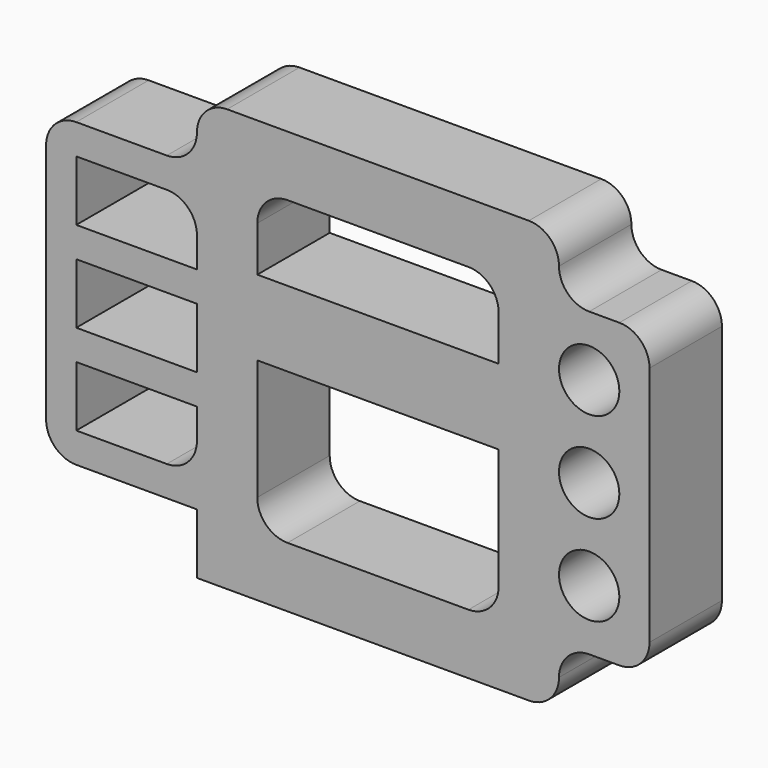
from build123d import *

# Parameters (mm, degrees)
F0_R     = 10
F0_W     = 40
F0_H     = 20
F1_DEPTH = 30


with BuildPart() as f1:
    # F0 (on Front) → F1 (new body)
    with BuildSketch(Plane.XZ):
        with BuildLine():
            Line((0, 20), (0, 0))
            Line((0, 0), (110, 0))
            ThreePointArc((110, 0), (117.071068, 2.928932), (120, 10))
            ThreePointArc((120, 10), (122.928932, 17.071068), (130, 20))
            Line((130, 20), (140, 20))
            ThreePointArc((140, 20), (147.071068, 22.928932), (150, 30))
            Line((150, 30), (150, 110))
            ThreePointArc((150, 110), (147.071068, 117.071068), (140, 120))
            Line((140, 120), (130, 120))
            ThreePointArc((130, 120), (122.928932, 122.928932), (120, 130))
            ThreePointArc((120, 130), (117.071068, 137.071068), (110, 140))
            Line((110, 140), (10, 140))
            ThreePointArc((10, 140), (2.928932, 137.071068), (0, 130))
            ThreePointArc((0, 130), (-2.928932, 122.928932), (-10, 120))
            Line((-10, 120), (-40, 120))
            ThreePointArc((-40, 120), (-47.071068, 117.071068), (-50, 110))
            Line((-50, 110), (-50, 30))
            ThreePointArc((-50, 30), (-47.071068, 22.928932), (-40, 20))
            Line((-40, 20), (0, 20))
        make_face()
        with BuildLine():
            Line((-40, 30), (-40, 50))
            Line((-40, 50), (0, 50))
            Line((0, 50), (0, 40))
            ThreePointArc((0, 40), (-2.928932, 32.928932), (-10, 30))
            Line((-10, 30), (-40, 30))
        make_face(mode=Mode.SUBTRACT)
        with BuildLine():
            Line((20, 30), (20, 70))
            Line((20, 70), (100, 70))
            Line((100, 70), (100, 30))
            ThreePointArc((100, 30), (97.071068, 22.928932), (90, 20))
            Line((90, 20), (30, 20))
            ThreePointArc((30, 20), (22.928932, 22.928932), (20, 30))
        make_face(mode=Mode.SUBTRACT)
        with Locations((130, 40)):
            Circle(F0_R, mode=Mode.SUBTRACT)
        with Locations((-20, 70)):
            Rectangle(F0_W, F0_H, mode=Mode.SUBTRACT)
        with BuildLine():
            Line((-40, 90), (-40, 110))
            Line((-40, 110), (-10, 110))
            ThreePointArc((-10, 110), (-2.928932, 107.071068), (0, 100))
            Line((0, 100), (0, 90))
            Line((0, 90), (-40, 90))
        make_face(mode=Mode.SUBTRACT)
        with Locations((130, 70)):
            Circle(F0_R, mode=Mode.SUBTRACT)
        with Locations((130, 100)):
            Circle(F0_R, mode=Mode.SUBTRACT)
        with BuildLine():
            Line((100, 95), (20, 95))
            Line((20, 95), (20, 110))
            ThreePointArc((20, 110), (22.928932, 117.071068), (30, 120))
            Line((30, 120), (90, 120))
            ThreePointArc((90, 120), (97.071068, 117.071068), (100, 110))
            Line((100, 110), (100, 95))
        make_face(mode=Mode.SUBTRACT)
    extrude(amount=F1_DEPTH)


solid = f1.part
